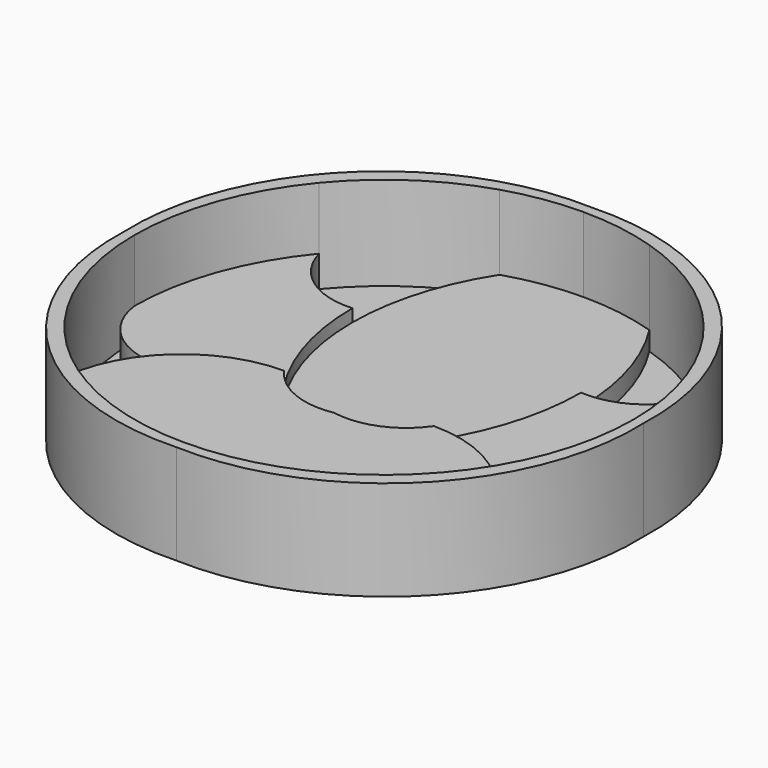
from build123d import *

# Parameters (mm, degrees)
F1_DEPTH = 50.8
F2_DEPTH = 12.7
F3_DEPTH = 25.4
F4_DEPTH = 19.05
F5_DEPTH = 3.175


with BuildPart() as f1:
    # F0 (on Top) → F1 (new body)
    with BuildSketch(Plane.XY):
        with BuildLine():
            ThreePointArc((97.792826, 81.028163), (119.475288, 43.065712), (127, 0))
            Line((127, 0), (132.08, 0))
            ThreePointArc((132.08, 0), (94.988487, 94.988487), (0, 132.08))
            Line((0, 132.08), (0, 127))
            ThreePointArc((0, 127), (19.273228, 125.529051), (38.1, 121.150279))
            ThreePointArc((38.1, 121.150279), (70.846038, 105.40322), (97.792826, 81.028163))
        make_face()
        with BuildLine():
            Line((0, 127), (0, 132.08))
            ThreePointArc((0, 132.08), (-94.988487, 94.988487), (-132.08, 0))
            Line((-132.08, 0), (-127, 0))
            ThreePointArc((-127, 0), (-119.475288, 43.065712), (-97.792826, 81.028163))
            ThreePointArc((-97.792826, 81.028163), (-70.846038, 105.40322), (-38.1, 121.150279))
            ThreePointArc((-38.1, 121.150279), (-19.273228, 125.529051), (0, 127))
        make_face()
        with BuildLine():
            Line((132.08, 0), (127, 0))
            ThreePointArc((127, 0), (120.842224, -39.066058), (102.966034, -74.343768))
            ThreePointArc((102.966034, -74.343768), (57.824482, -113.07223), (0, -127))
            Line((0, -127), (0, -132.08))
            ThreePointArc((0, -132.08), (94.988487, -94.988487), (132.08, 0))
        make_face()
        with BuildLine():
            Line((0, -132.08), (0, -127))
            ThreePointArc((0, -127), (-57.824482, -113.07223), (-102.966034, -74.343768))
            ThreePointArc((-102.966034, -74.343768), (-120.842224, -39.066058), (-127, 0))
            Line((-127, 0), (-132.08, 0))
            ThreePointArc((-132.08, 0), (-94.988487, -94.988487), (0, -132.08))
        make_face()
    extrude(amount=F1_DEPTH)

    # F0 (on Top) → F2 (join)
    with BuildSketch(Plane.XY):
        with BuildLine():
            ThreePointArc((58.165355, 52.637639), (53.045829, 88.332878), (38.1, 121.150279))
            ThreePointArc((38.1, 121.150279), (19.273228, 125.529051), (0, 127))
            ThreePointArc((0, 127), (-19.273228, 125.529051), (-38.1, 121.150279))
            ThreePointArc((-38.1, 121.150279), (-53.045829, 88.332878), (-58.165355, 52.637639))
            ThreePointArc((-58.165355, 52.637639), (-53.045829, 16.942401), (-38.1, -15.875))
            ThreePointArc((-38.1, -15.875), (-21.38592, -29.418708), (0, -31.75))
            ThreePointArc((0, -31.75), (21.38592, -29.418708), (38.1, -15.875))
            ThreePointArc((38.1, -15.875), (53.045829, 16.942401), (58.165355, 52.637639))
        make_face()
    extrude(amount=F2_DEPTH)

    # F0 (on Top) → F3 (join)
    with BuildSketch(Plane.XY):
        with BuildLine():
            ThreePointArc((0, -127), (57.824482, -113.07223), (102.966034, -74.343768))
            ThreePointArc((102.966034, -74.343768), (96.231727, -51.530394), (81.764056, -32.649519))
            ThreePointArc((81.764056, -32.649519), (61.48768, -20.212899), (38.1, -15.875))
            ThreePointArc((38.1, -15.875), (21.38592, -29.418708), (0, -31.75))
            ThreePointArc((0, -31.75), (-21.38592, -29.418708), (-38.1, -15.875))
            ThreePointArc((-38.1, -15.875), (-61.48768, -20.212899), (-81.764056, -32.649519))
            ThreePointArc((-81.764056, -32.649519), (-96.231727, -51.530394), (-102.966034, -74.343768))
            ThreePointArc((-102.966034, -74.343768), (-57.824482, -113.07223), (0, -127))
        make_face()
    extrude(amount=F3_DEPTH)

    # F0 (on Top) → F4 (join)
    with BuildSketch(Plane.XY):
        with BuildLine():
            ThreePointArc((-97.792826, 81.028163), (-119.475288, 43.065712), (-127, 0))
            ThreePointArc((-127, 0), (-111.491203, -26.174529), (-81.764056, -32.649519))
            ThreePointArc((-81.764056, -32.649519), (-61.48768, -20.212899), (-38.1, -15.875))
            ThreePointArc((-38.1, -15.875), (-53.045829, 16.942401), (-58.165355, 52.637639))
            ThreePointArc((-58.165355, 52.637639), (-83.113803, 59.665873), (-97.792826, 81.028163))
        make_face()
        with BuildLine():
            ThreePointArc((81.764056, -32.649519), (111.491203, -26.174529), (127, 0))
            ThreePointArc((127, 0), (119.475288, 43.065712), (97.792826, 81.028163))
            ThreePointArc((97.792826, 81.028163), (83.113803, 59.665873), (58.165355, 52.637639))
            ThreePointArc((58.165355, 52.637639), (53.045829, 16.942401), (38.1, -15.875))
            ThreePointArc((38.1, -15.875), (61.48768, -20.212899), (81.764056, -32.649519))
        make_face()
    extrude(amount=F4_DEPTH)

    # F0 (on Top) → F5 (join)
    with BuildSketch(Plane.XY):
        with BuildLine():
            ThreePointArc((58.165355, 52.637639), (83.113803, 59.665873), (97.792826, 81.028163))
            ThreePointArc((97.792826, 81.028163), (70.846038, 105.40322), (38.1, 121.150279))
            ThreePointArc((38.1, 121.150279), (53.045829, 88.332878), (58.165355, 52.637639))
        make_face()
        with BuildLine():
            ThreePointArc((102.966034, -74.343768), (120.842224, -39.066058), (127, 0))
            ThreePointArc((127, 0), (111.491203, -26.174529), (81.764056, -32.649519))
            ThreePointArc((81.764056, -32.649519), (96.231727, -51.530394), (102.966034, -74.343768))
        make_face()
        with BuildLine():
            ThreePointArc((-127, 0), (-120.842224, -39.066058), (-102.966034, -74.343768))
            ThreePointArc((-102.966034, -74.343768), (-96.231727, -51.530394), (-81.764056, -32.649519))
            ThreePointArc((-81.764056, -32.649519), (-111.491203, -26.174529), (-127, 0))
        make_face()
        with BuildLine():
            ThreePointArc((-58.165355, 52.637639), (-53.045829, 88.332878), (-38.1, 121.150279))
            ThreePointArc((-38.1, 121.150279), (-70.846038, 105.40322), (-97.792826, 81.028163))
            ThreePointArc((-97.792826, 81.028163), (-83.113803, 59.665873), (-58.165355, 52.637639))
        make_face()
    extrude(amount=F5_DEPTH)


solid = f1.part
